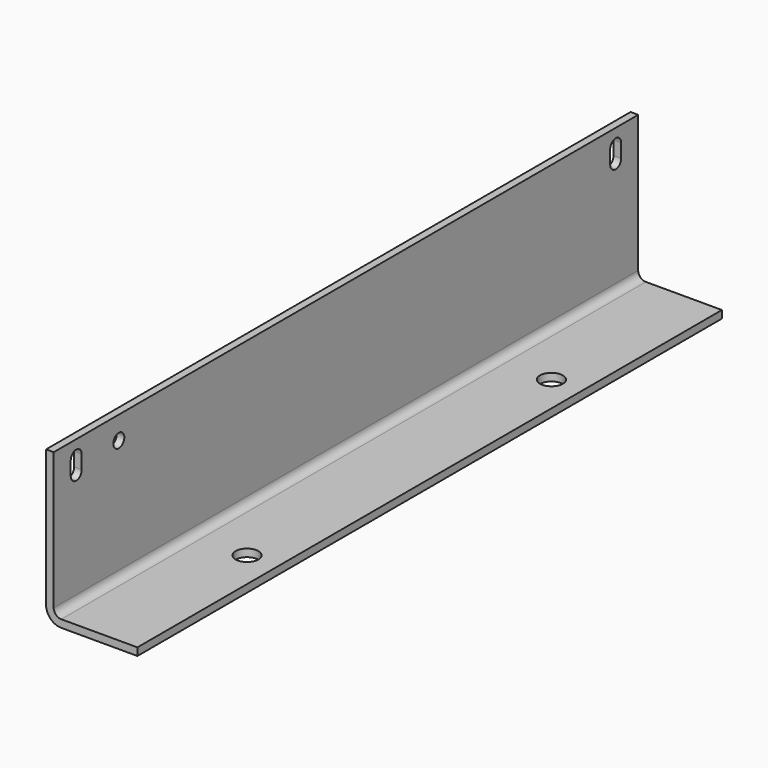
from build123d import *

# Parameters (mm, degrees)
F1_DEPTH = 480
F2_R     = 9
F3_DEPTH = 10
F4_R     = 15
F5_DEPTH = 10
F6_R     = 10
F7_R     = 20


with BuildPart() as f1:
    # F0 (on Front) → F1 (new body, symmetric)
    with BuildSketch(Plane.XZ):
        Polygon((0, 200), (0, 0), (120, 0), (120, 10), (10, 10), (10, 200), align=None)
    extrude(amount=F1_DEPTH, both=True)

    # F2 (on face) → F3 (cut, through all)
    with BuildSketch(Plane.YZ.offset(10)):
        with Locations((-373, 170)):
            Circle(F2_R)
        with BuildLine():
            ThreePointArc((-434, 179), (-436.6360389693, 185.3639610307), (-443, 188))
            ThreePointArc((-443, 188), (-449.3639610307, 185.3639610307), (-452, 179))
            Line((-452, 179), (-452, 161))
            ThreePointArc((-452, 161), (-449.3639610307, 154.6360389693), (-443, 152))
            ThreePointArc((-443, 152), (-436.6360389693, 154.6360389693), (-434, 161))
            Line((-434, 161), (-434, 179))
        make_face()
        with BuildLine():
            ThreePointArc((443, 188), (436.6360389693, 185.3639610307), (434, 179))
            Line((434, 179), (434, 161))
            ThreePointArc((434, 161), (436.6360389693, 154.6360389693), (443, 152))
            ThreePointArc((443, 152), (449.3639610307, 154.6360389693), (452, 161))
            Line((452, 161), (452, 179))
            ThreePointArc((452, 179), (449.3639610307, 185.3639610307), (443, 188))
        make_face()
    extrude(amount=-F3_DEPTH, mode=Mode.SUBTRACT)

    # F4 (on face) → F5 (cut, through all)
    with BuildSketch(Plane.XY.offset(10)):
        with Locations((80, -250)):
            Circle(F4_R)
        with Locations((80, 250)):
            Circle(F4_R)
    extrude(amount=-F5_DEPTH, mode=Mode.SUBTRACT)

    # F6
    f6_edges = [f1.edges().sort_by_distance(p)[0] for p in [
        (10, 0, 10),
    ]]
    fillet(f6_edges, radius=F6_R)

    # F7
    f7_edges = [f1.edges().sort_by_distance(p)[0] for p in [
        (0, 0, 0),
    ]]
    fillet(f7_edges, radius=F7_R)


solid = f1.part
